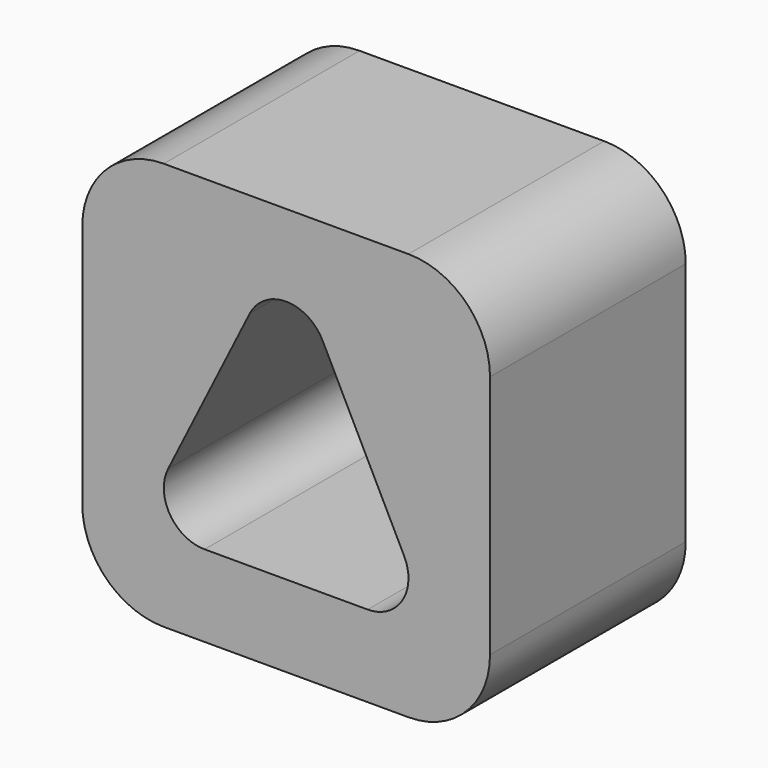
from build123d import *

# Parameters (mm, degrees)
F0_W     = 63.5
F0_H     = 63.5
F1_DEPTH = 19.05
F2_R     = 12.7


with BuildPart() as f1:
    # F0 (on Front) → F1 (new body, symmetric)
    with BuildSketch(Plane.XZ):
        with Locations((31.75, 31.75)):
            Rectangle(F0_W, F0_H)
        with BuildLine():
            ThreePointArc((19.05, 12.7), (13.648367367, 15.711607438), (13.3703873372, 21.8898063314))
            Line((13.3703873372, 21.8898063314), (26.0703873372, 47.2898063314))
            ThreePointArc((26.0703873372, 47.2898063314), (31.75, 50.8), (37.4296126628, 47.2898063314))
            Line((37.4296126628, 47.2898063314), (50.1296126628, 21.8898063314))
            ThreePointArc((50.1296126628, 21.8898063314), (49.851632633, 15.711607438), (44.45, 12.7))
            Line((44.45, 12.7), (19.05, 12.7))
        make_face(mode=Mode.SUBTRACT)
    extrude(amount=F1_DEPTH, both=True)

    # F2
    f2_edges = [f1.edges().sort_by_distance(p)[0] for p in [
        (63.5, 0, 0),
        (63.5, 0, 63.5),
        (0, 0, 0),
        (0, 0, 63.5),
    ]]
    fillet(f2_edges, radius=F2_R)


solid = f1.part
